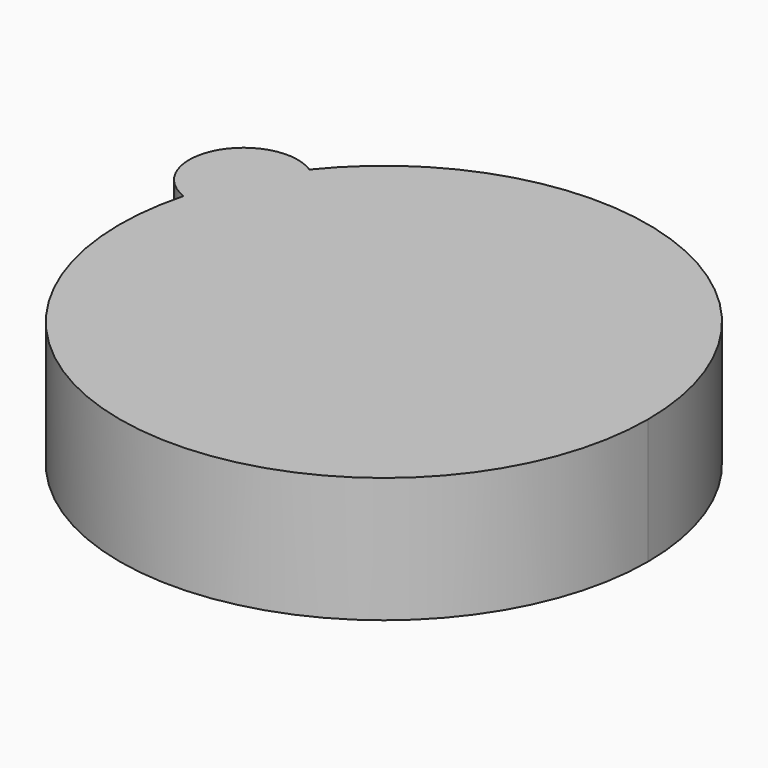
from build123d import *

# Parameters (mm, degrees)
F1_DEPTH = 25.4


with BuildPart() as f1:
    # F0 (on Top) → F1 (new body)
    with BuildSketch(Plane.XY):
        with BuildLine():
            ThreePointArc((-51.705354, 13.85561), (-6.987595, -53.071603), (53.529633, 0))
            ThreePointArc((53.529633, 0), (17.695323, 50.520264), (-41.830525, 33.401028))
            ThreePointArc((-41.830525, 33.401028), (-38.118057, 29.415841), (-36.770605, 24.138673))
            ThreePointArc((-36.770605, 24.138673), (-41.535677, 15.072415), (-51.705354, 13.85561))
        make_face()
        with BuildLine():
            ThreePointArc((-51.705354, 13.85561), (-47.778091, 24.138673), (-41.830525, 33.401028))
            ThreePointArc((-41.830525, 33.401028), (-57.602869, 29.102393), (-51.705354, 13.85561))
        make_face()
        with BuildLine():
            ThreePointArc((-36.770605, 24.138673), (-38.118057, 29.415841), (-41.830525, 33.401028))
            ThreePointArc((-41.830525, 33.401028), (-47.778091, 24.138673), (-51.705354, 13.85561))
            ThreePointArc((-51.705354, 13.85561), (-41.535677, 15.072415), (-36.770605, 24.138673))
        make_face()
    extrude(amount=F1_DEPTH)


solid = f1.part
